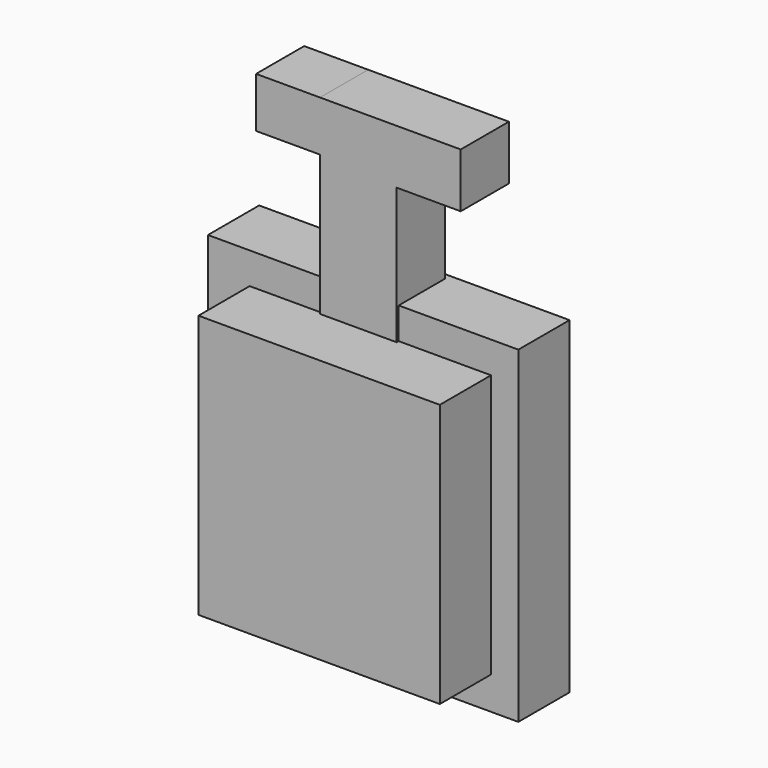
from build123d import *

# Parameters (mm, degrees)
F0_W      = 123.206594
F0_H      = 130.075954
F1_DEPTH  = 25.4
F2_W      = 95.803373
F2_H      = 104.553889
F3_DEPTH  = 50.8
F4_W      = 30.438052
F4_H      = 23.883161
F5_DEPTH  = 101.6
F6_W      = 30.438052
F6_H      = 23.883161
F7_DEPTH  = 25.4
F8_W      = 23.883161
F8_H      = 19.953523
F9_DEPTH  = 25.4
F10_W     = 23.883161
F10_H     = 21.609392
F11_DEPTH = 25.4


with BuildPart() as f1:
    # F0 (on Front) → F1 (new body)
    with BuildSketch(Plane.XZ):
        with Locations((0.359755, -1.193192)):
            Rectangle(F0_W, F0_H)
    extrude(amount=F1_DEPTH)

    # F2 (on Front) → F3 (join)
    with BuildSketch(Plane.XZ):
        with Locations((3.213964, -0.911535)):
            Rectangle(F2_W, F2_H)
    extrude(amount=F3_DEPTH)

    # F4 (on Top) → F5 (join)
    with BuildSketch(Plane.XY):
        with Locations((-0.748993, -14.428739)):
            Rectangle(F4_W, F4_H)
    extrude(amount=F5_DEPTH)

    # F6 (on face) → F7 (join)
    with BuildSketch(Plane.XY.offset(101.6)):
        with Locations((-0.748993, -14.428739)):
            Rectangle(F6_W, F6_H)
    extrude(amount=F7_DEPTH)

    # F8 (on face) → F9 (join)
    with BuildSketch(Plane(origin=(-15.968019, 0, 0), x_dir=(0, -1, 0), z_dir=(-1, 0, 0))):
        with Locations((14.428739, 117.023238)):
            Rectangle(F8_W, F8_H)
    extrude(amount=F9_DEPTH)

    # F10 (on face) → F11 (join)
    with BuildSketch(Plane.YZ.offset(14.470033)):
        with Locations((-14.428739, 116.195304)):
            Rectangle(F10_W, F10_H)
    extrude(amount=F11_DEPTH)


solid = f1.part
